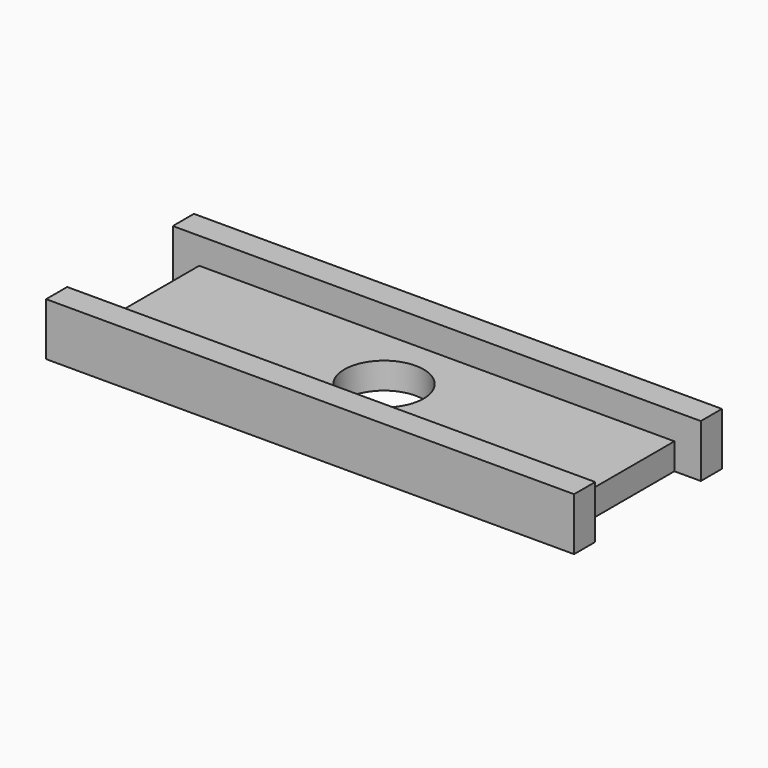
from build123d import *

# Parameters (mm, degrees)
F0_W     = 36
F0_H     = 10
F1_DEPTH = 2
F2_DEPTH = 4
F4_D     = 6
F4_DEPTH = 2


with BuildPart() as f1:
    # F0 (on Top) → F1 (new body)
    with BuildSketch(Plane.XY):
        Rectangle(F0_W, F0_H)
        Polygon((20, 7), (-20, 7), (-20, 5), (-18, 5), (18, 5), (20, 5), align=None)
        Polygon((-18, -5), (-20, -5), (-20, -7), (20, -7), (20, -5), (18, -5), align=None)
    extrude(amount=F1_DEPTH)

    # F0 (on Top) → F2 (join)
    with BuildSketch(Plane.XY):
        Polygon((20, 7), (-20, 7), (-20, 5), (-18, 5), (18, 5), (20, 5), align=None)
        Polygon((-18, -5), (-20, -5), (-20, -7), (20, -7), (20, -5), (18, -5), align=None)
    extrude(amount=F2_DEPTH)

    # F4
    with Locations(Plane(origin=(0, 0, 0), x_dir=(1, 0, 0), z_dir=(0, 0, -1))):
        with Locations((0, 0)):
            Hole(F4_D / 2, depth=F4_DEPTH)


solid = f1.part
